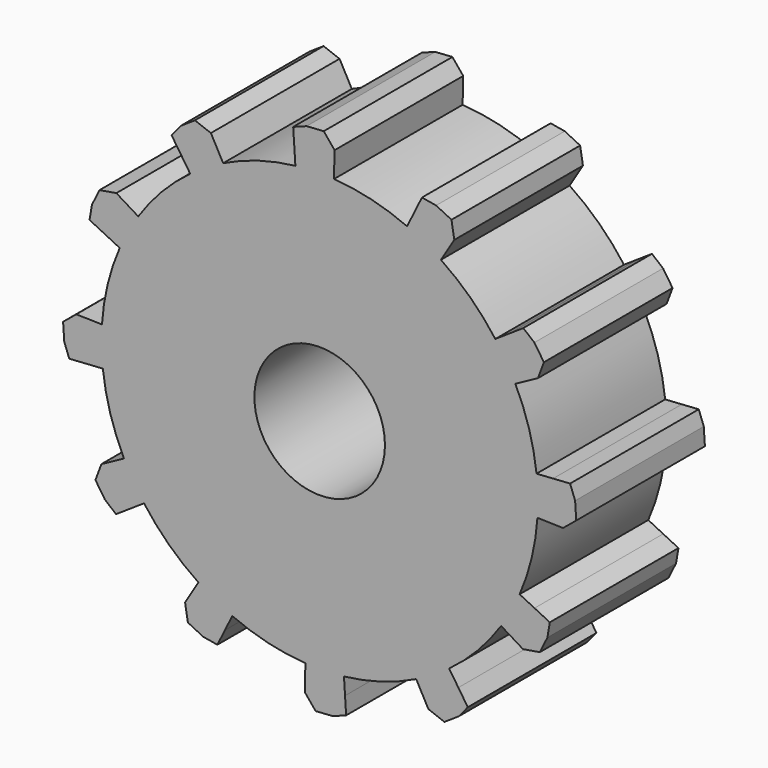
from build123d import *

# Parameters (mm, degrees)
F0_R     = 21.7005672346
F0_R_2   = 10.1477344841
F1_DEPTH = 25
F2_COUNT = 12


with BuildPart() as f1:
    # F0 (on Front) → F1 (new body)
    with BuildSketch(Plane.XZ):
        with BuildLine():
            Line((0.0755267103, 61.0092692077), (-0.678219289, 61.0092692077))
            ThreePointArc((-0.678219289, 61.0092692077), (-1.4109604477, 60.9850584399), (-2.1430072202, 60.9450173375))
            ThreePointArc((-2.1430072202, 60.9450173375), (-2.9216954454, 60.8849691932), (-3.6987948092, 60.8070095215))
            ThreePointArc((-3.6987948092, 60.8070095215), (0.8564750407, -6.8151927129), (2.2940606408, 60.9450173375))
            Line((2.2940606408, 60.9450173375), (0.0755267103, 61.0092692077))
        make_face()
        with BuildLine():
            ThreePointArc((-1.4440762441, 52.1542261029), (17.2807567209, 45.3769750136), (25.1790579289, 27.0967304878))
            ThreePointArc((25.1790579289, 27.0967304878), (-17.1297033003, 8.816485962), (-1.4440762441, 52.1542261029))
        make_face(mode=Mode.SUBTRACT)
        with BuildLine():
            ThreePointArc((-1.4440762441, 52.1542261029), (-17.1297033003, 8.816485962), (25.1790579289, 27.0967304878))
            ThreePointArc((25.1790579289, 27.0967304878), (17.2807567209, 45.3769750136), (-1.4440762441, 52.1542261029))
        make_face()
        with Locations((0.0755267103, 27.0967304878)):
            Circle(F0_R, mode=Mode.SUBTRACT)
        with Locations((0.0755267103, 27.0967304878)):
            Circle(F0_R)
        with Locations((0.0755267103, 27.0967304878)):
            Circle(F0_R_2, mode=Mode.SUBTRACT)
        with BuildLine():
            ThreePointArc((-2.1430072202, 60.9450173375), (-1.4109604477, 60.9850584399), (-0.678219289, 61.0092692077))
            Line((-0.678219289, 61.0092692077), (0.0755267103, 61.0092692077))
            Line((0.0755267103, 61.0092692077), (2.2940606408, 60.9450173375))
            Line((2.2940606408, 60.9450173375), (2.3937216029, 64.932487905))
            Line((2.3937216029, 64.932487905), (0.7080621371, 66.9803842463))
            Line((0.7080621371, 66.9803842463), (-1.9470183179, 66.8063610792))
            Line((-1.9470183179, 66.8063610792), (-4.0409177, 66.0267961504))
            Line((-4.0409177, 66.0267961504), (-3.8679042053, 63.38712032))
            Line((-3.8679042053, 63.38712032), (-3.6987948092, 60.8070095215))
            ThreePointArc((-3.6987948092, 60.8070095215), (-2.9216954454, 60.8849691932), (-2.1430072202, 60.9450173375))
        make_face()
    extrude(amount=F1_DEPTH)

    # F2: F1 ×12 about axis
    f2_axis = Axis((0.0755267103, 0, 27.0967304878), (0, 1, 0))


with BuildPart() as f1_1:
    add(f1.part)
    for i in range(1, F2_COUNT):
        add(f1.part.rotate(f2_axis, i * 360 / F2_COUNT))


solid = f1_1.part
